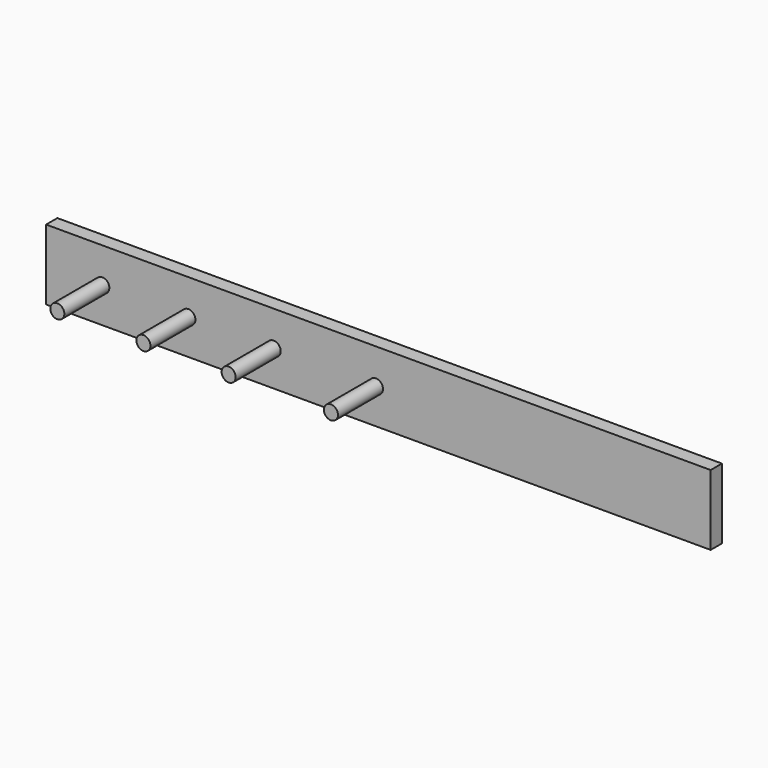
from build123d import *

# Parameters (mm, degrees)
F0_W     = 236.196054
F0_H     = 25
F1_DEPTH = 5
F2_R     = 2.5
F3_DEPTH = 20


with BuildPart() as f1:
    # F0 (on Front) → F1 (new body)
    with BuildSketch(Plane.XZ):
        with Locations((118.098027, 12.5)):
            Rectangle(F0_W, F0_H)
    extrude(amount=-F1_DEPTH)

    # F2 (on face) → F3 (join)
    with BuildSketch(Plane.XZ):
        with Locations((19.984195, 12.5)):
            Circle(F2_R)
        with Locations((50.584195, 12.5)):
            Circle(F2_R)
        with Locations((80.884195, 12.5)):
            Circle(F2_R)
        with Locations((117.244195, 12.5)):
            Circle(F2_R)
    extrude(amount=F3_DEPTH)


solid = f1.part
